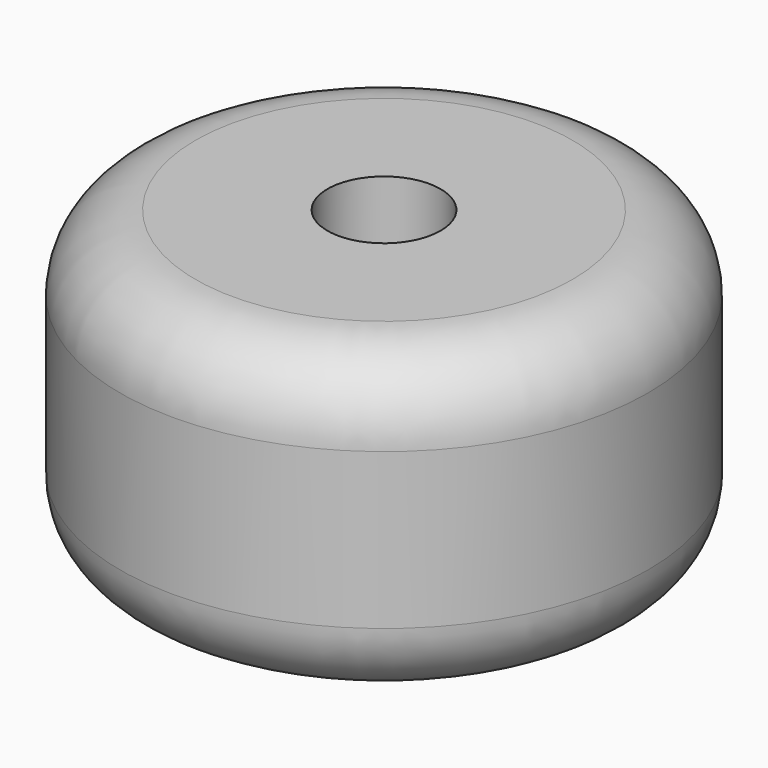
from build123d import *

# Parameters (mm, degrees)
F0_R     = 7
F0_R_2   = 1.5
F1_DEPTH = 8.13
F2_R     = 2
F3_R     = 2


with BuildPart() as f1:
    # F0 (on Top) → F1 (new body)
    with BuildSketch(Plane.XY):
        Circle(F0_R)
        Circle(F0_R_2, mode=Mode.SUBTRACT)
    extrude(amount=F1_DEPTH)

    # F2
    f2_edges = [f1.edges().sort_by_distance(p)[0] for p in [
        (-7, 0, 8.13),
    ]]
    fillet(f2_edges, radius=F2_R)

    # F3
    f3_edges = [f1.edges().sort_by_distance(p)[0] for p in [
        (-7, 0, 0),
    ]]
    fillet(f3_edges, radius=F3_R)


solid = f1.part
